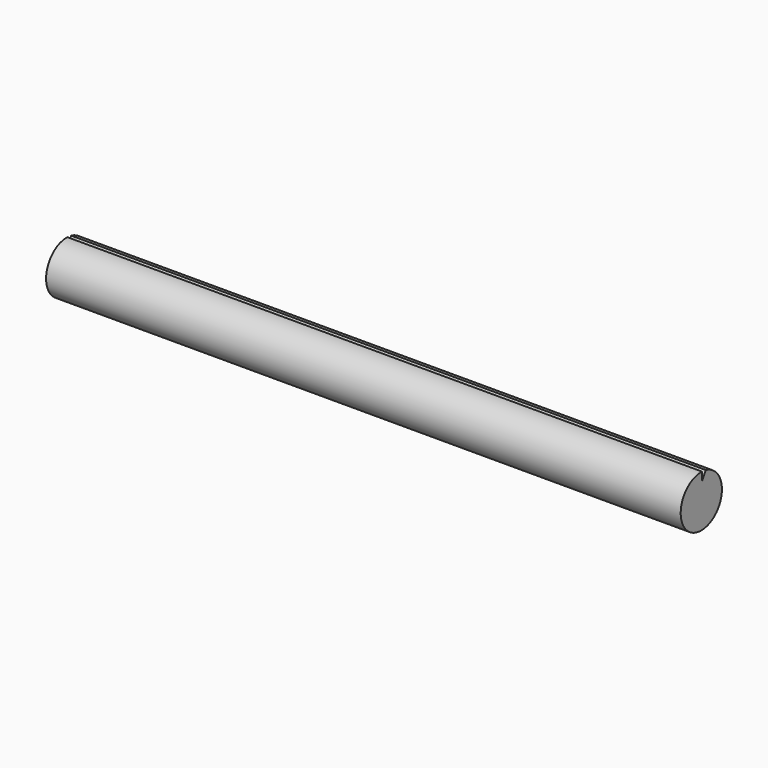
from build123d import *

# Parameters (mm, degrees)
F1_DEPTH = 800


with BuildPart() as f1:
    # F0 (on Right) → F1 (new body)
    with BuildSketch(Plane.YZ):
        with BuildLine():
            Line((-0.117821, 21.308826), (-0.117821, 32.252139))
            ThreePointArc((-0.117821, 32.252139), (-5.141267, -32.482172), (5.90625, 31.500001))
            Line((5.90625, 31.500001), (-0.117821, 21.308826))
        make_face()
    extrude(amount=F1_DEPTH)


solid = f1.part
